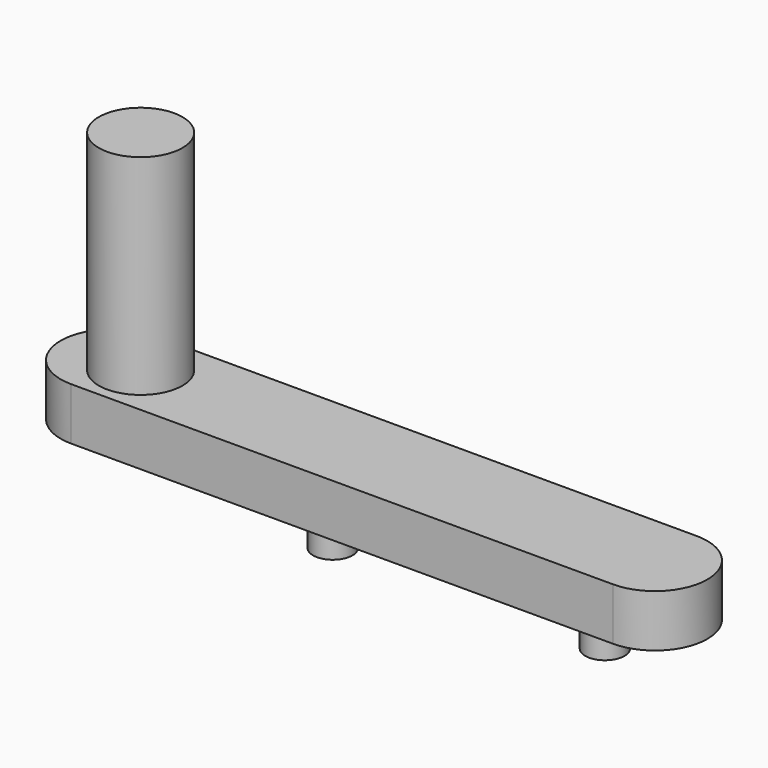
from build123d import *

# Parameters (mm, degrees)
F1_DEPTH = 3.175
F2_R     = 2.54
F3_DEPTH = 12.7
F4_R     = 1.1938
F5_DEPTH = 2.54


with BuildPart() as f1:
    # F0 (on Top) → F1 (new body)
    with BuildSketch(Plane.XY):
        with BuildLine():
            Line((32.885008, 3.175), (0, 3.175))
            ThreePointArc((0, 3.175), (-3.175, 0), (0, -3.175))
            Line((0, -3.175), (32.885008, -3.175))
            ThreePointArc((32.885008, -3.175), (36.060008, 0), (32.885008, 3.175))
        make_face()
    extrude(amount=F1_DEPTH)

    # F2 (on face) → F3 (join)
    with BuildSketch(Plane.XY.offset(3.175)):
        with Locations((1.6764, 0)):
            Circle(F2_R)
    extrude(amount=F3_DEPTH)

    # F4 (on face) → F5 (join)
    with BuildSketch(Plane(origin=(0, 0, 0), x_dir=(1, 0, 0), z_dir=(0, 0, -1))):
        with Locations((13.335, 0)):
            Circle(F4_R)
        with Locations((29.845, 0)):
            Circle(F4_R)
    extrude(amount=F5_DEPTH)


solid = f1.part
